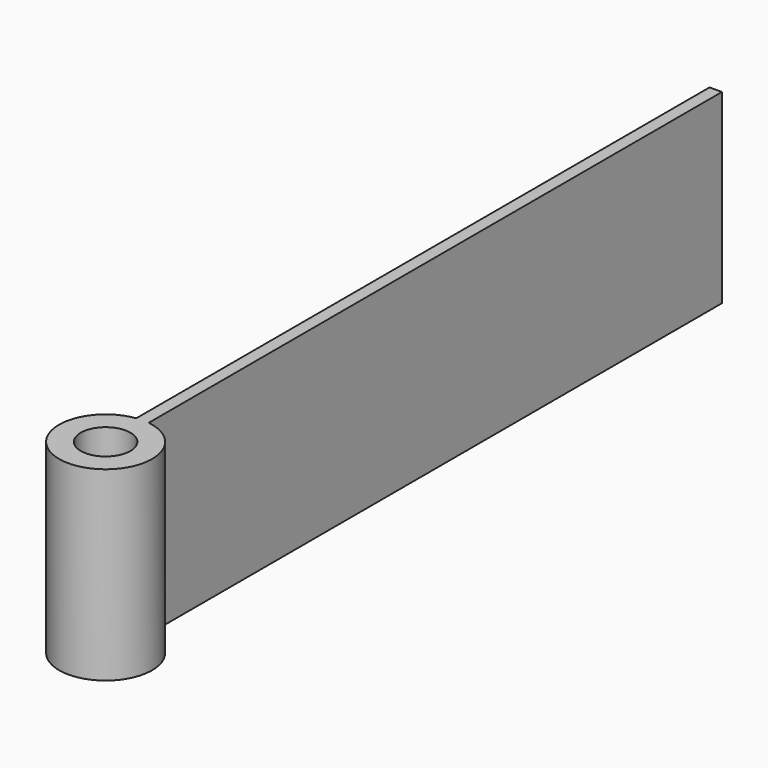
from build123d import *

# Parameters (mm, degrees)
CYLINDER001_R     = 4
CYLINDER001_DEPTH = 30
CYLINDER_R        = 7.5
CYLINDER_DEPTH    = 30
BOX_W             = 2
BOX_H             = 120
BOX_DEPTH         = 30


with BuildPart() as cilindro_subs:
    # Cylinder001 → Cylinder001 (new body)
    with BuildSketch(Plane(origin=(2.5, -3, 0), x_dir=(1, 0, 0), z_dir=(0, 0, 1))):
        Circle(CYLINDER001_R)
    extrude(amount=CYLINDER001_DEPTH)


with BuildPart() as obj1:
    # Cylinder → Cylinder (new body)
    with BuildSketch(Plane(origin=(2.5, -3, 0), x_dir=(1, 0, 0), z_dir=(0, 0, 1))):
        Circle(CYLINDER_R)
    extrude(amount=CYLINDER_DEPTH)


with BuildPart() as cut:
    # Box → Box (new body)
    with BuildSketch(Plane(origin=(1.5, 0, 0), x_dir=(1, 0, 0), z_dir=(0, 0, 1))):
        with Locations((1, 60)):
            Rectangle(BOX_W, BOX_H)
    extrude(amount=BOX_DEPTH)

    # Fusion: union obj1
    add(obj1.part)

    # Cut: cut Cilindro subs
    add(cilindro_subs.part, mode=Mode.SUBTRACT)


solid = cut.part
